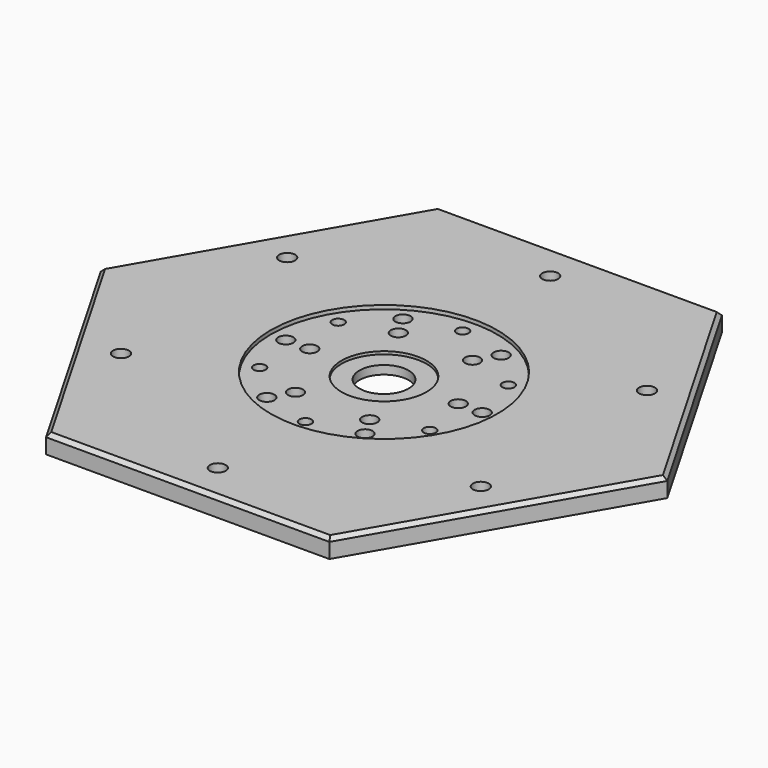
from build123d import *

# Parameters (mm, degrees)
F0_R     = 4.2
F1_DEPTH = 10
F5_D     = 8
F5_DEPTH = 15
F6_D     = 6.4
F6_DEPTH = 20
F7_SIZE  = 2


with BuildPart() as f1:
    # F0 (on Top) → F1 (new body)
    with BuildSketch(Plane.XY):
        Polygon((75, -129.903811), (150, 0), (75, 129.903811), (-75, 129.903811), (-150, 0), (-75, -129.903811), align=None)
        with Locations((-95.262794, -55)):
            Circle(F0_R, mode=Mode.SUBTRACT)
        with Locations((0, -110)):
            Circle(F0_R, mode=Mode.SUBTRACT)
        with Locations((95.262794, -55)):
            Circle(F0_R, mode=Mode.SUBTRACT)
        with Locations((-95.262794, 55)):
            Circle(F0_R, mode=Mode.SUBTRACT)
        with Locations((95.262794, 55)):
            Circle(F0_R, mode=Mode.SUBTRACT)
        with Locations((0, 110)):
            Circle(F0_R, mode=Mode.SUBTRACT)
    extrude(amount=F1_DEPTH)

    # F2 (on Front) → F3 (revolve, cut)
    with BuildSketch(Plane.XZ):
        Polygon((-23.5, 2), (-23.5, -10), (0, -10), (0, 18), (-60, 18), (-60, 8), (-22.5, 8), (-22.5, 6.5), (-13, 6.5), (-13, 2), align=None)
    revolve(axis=Axis((0, 0, -2.490325), (0, 0, -1)), mode=Mode.SUBTRACT)

    # F5
    with Locations(Plane.XY.offset(8)):
        with Locations((-26, 45.033321), (-52, 0), (-26, -45.033321), (26, -45.033321), (52, 0), (26, 45.033321), (-19.65, 34.034798), (-39.3, 0), (-19.65, -34.034798), (19.65, -34.034798), (39.3, 0), (19.65, 34.034798)):
            Hole(F5_D / 2, depth=F5_DEPTH)

    # F6
    with Locations(Plane.XY.offset(8)):
        with Locations((0, 52), (-45.033321, 26), (-45.033321, -26), (0, -52), (45.033321, -26), (45.033321, 26)):
            Hole(F6_D / 2, depth=F6_DEPTH)

    # F7
    f7_edges = [f1.edges().sort_by_distance(p)[0] for p in [
        (0, -129.903811, 10),
        (112.5, -64.951905, 10),
        (112.5, 64.951905, 10),
        (0, 129.903811, 10),
        (-112.5, 64.951905, 10),
        (-112.5, -64.951905, 10),
    ]]
    chamfer(f7_edges, length=F7_SIZE)


solid = f1.part
